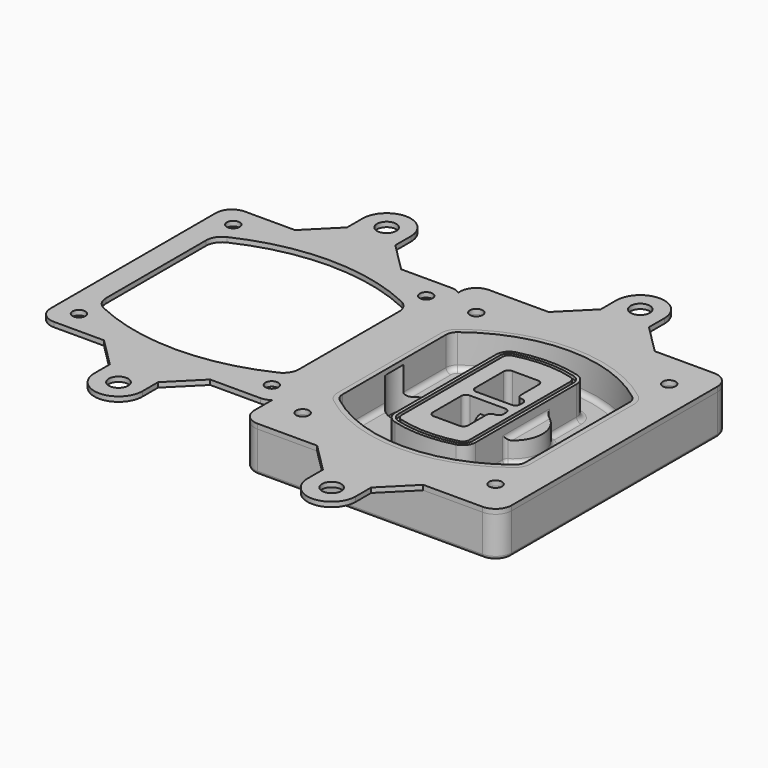
from build123d import *

# Parameters (mm, degrees)
F0_R      = 4
F1_DEPTH  = 25
F2_DEPTH  = 3
F3_DEPTH  = 18
F5_DEPTH  = 21
F6_DEPTH  = 2
F8_DEPTH  = 20
F9_DEPTH  = 16
F10_DEPTH = 25
F7_R      = 6
F7_R_2    = 4
F11_DEPTH = 6
F13_DEPTH = 9
F14_R     = 3
F15_R     = 2
F16_R     = 4
F16_R_2   = 6
F17_DEPTH = 3


with BuildPart() as f1:
    # F0 (on Top) → F1 (new body)
    with BuildSketch(Plane.XY):
        with BuildLine():
            ThreePointArc((-80, -80), (-77.0710678119, -87.0710678119), (-70, -90))
            Line((-70, -90), (70, -90))
            ThreePointArc((70, -90), (77.0710678119, -87.0710678119), (80, -80))
            Line((80, -80), (80, 80))
            ThreePointArc((80, 80), (77.0710678119, 87.0710678119), (70, 90))
            Line((70, 90), (-70, 90))
            ThreePointArc((-70, 90), (-77.0710678119, 87.0710678119), (-80, 80))
            Line((-80, 80), (-80, -80))
        make_face()
        with Locations((-60, -67.5)):
            Circle(F0_R, mode=Mode.SUBTRACT)
        with Locations((60, -67.5)):
            Circle(F0_R, mode=Mode.SUBTRACT)
        with Locations((-60, 67.5)):
            Circle(F0_R, mode=Mode.SUBTRACT)
        with BuildLine():
            ThreePointArc((-64, 40.2934422872), (-62.5820384798, 46.4328484224), (-58.6153846154, 51.3286200352))
            ThreePointArc((-58.6153846154, 51.3286200352), (0, 71.5), (58.6153846154, 51.3286200352))
            ThreePointArc((58.6153846154, 51.3286200352), (62.5820384798, 46.4328484224), (64, 40.2934422872))
            Line((64, 40.2934422872), (64, -40.2934422872))
            ThreePointArc((64, -40.2934422872), (62.5820384798, -46.4328484224), (58.6153846154, -51.3286200352))
            ThreePointArc((58.6153846154, -51.3286200352), (0, -71.5), (-58.6153846154, -51.3286200352))
            ThreePointArc((-58.6153846154, -51.3286200352), (-62.5820384798, -46.4328484224), (-64, -40.2934422872))
            Line((-64, -40.2934422872), (-64, 40.2934422872))
        make_face(mode=Mode.SUBTRACT)
        with Locations((60, 67.5)):
            Circle(F0_R, mode=Mode.SUBTRACT)
        with BuildLine():
            ThreePointArc((58.6153846154, 51.3286200352), (0, 71.5), (-58.6153846154, 51.3286200352))
            ThreePointArc((-58.6153846154, 51.3286200352), (-62.5820384798, 46.4328484224), (-64, 40.2934422872))
            Line((-64, 40.2934422872), (-64, -40.2934422872))
            ThreePointArc((-64, -40.2934422872), (-62.5820384798, -46.4328484224), (-58.6153846154, -51.3286200352))
            ThreePointArc((-58.6153846154, -51.3286200352), (0, -71.5), (58.6153846154, -51.3286200352))
            ThreePointArc((58.6153846154, -51.3286200352), (62.5820384798, -46.4328484224), (64, -40.2934422872))
            Line((64, -40.2934422872), (64, 40.2934422872))
            ThreePointArc((64, 40.2934422872), (62.5820384798, 46.4328484224), (58.6153846154, 51.3286200352))
        make_face()
        with BuildLine():
            Line((-60, -40.2934422872), (-60, 40.2934422872))
            ThreePointArc((-60, 40.2934422872), (-58.9871703427, 44.6787323838), (-56.1538461538, 48.1757121072))
            ThreePointArc((-56.1538461538, 48.1757121072), (0, 67.5), (56.1538461538, 48.1757121072))
            ThreePointArc((56.1538461538, 48.1757121072), (58.9871703427, 44.6787323838), (60, 40.2934422872))
            Line((60, 40.2934422872), (60, -40.2934422872))
            ThreePointArc((60, -40.2934422872), (58.9871703427, -44.6787323838), (56.1538461538, -48.1757121072))
            ThreePointArc((56.1538461538, -48.1757121072), (0, -67.5), (-56.1538461538, -48.1757121072))
            ThreePointArc((-56.1538461538, -48.1757121072), (-58.9871703427, -44.6787323838), (-60, -40.2934422872))
        make_face(mode=Mode.SUBTRACT)
        with BuildLine():
            ThreePointArc((-56.1538461538, 48.1757121072), (-58.9871703427, 44.6787323838), (-60, 40.2934422872))
            Line((-60, 40.2934422872), (-60, -40.2934422872))
            ThreePointArc((-60, -40.2934422872), (-58.9871703427, -44.6787323838), (-56.1538461538, -48.1757121072))
            ThreePointArc((-56.1538461538, -48.1757121072), (0, -67.5), (56.1538461538, -48.1757121072))
            ThreePointArc((56.1538461538, -48.1757121072), (58.9871703427, -44.6787323838), (60, -40.2934422872))
            Line((60, -40.2934422872), (60, 40.2934422872))
            ThreePointArc((60, 40.2934422872), (58.9871703427, 44.6787323838), (56.1538461538, 48.1757121072))
            ThreePointArc((56.1538461538, 48.1757121072), (0, 67.5), (-56.1538461538, 48.1757121072))
        make_face()
        with BuildLine():
            ThreePointArc((54.3076923077, 45.8110311612), (56.2910192399, 43.3631453548), (57, 40.2934422872))
            Line((57, 40.2934422872), (57, -40.2934422872))
            ThreePointArc((57, -40.2934422872), (56.2910192399, -43.3631453548), (54.3076923077, -45.8110311612))
            ThreePointArc((54.3076923077, -45.8110311612), (0, -64.5), (-54.3076923077, -45.8110311612))
            ThreePointArc((-54.3076923077, -45.8110311612), (-56.2910192399, -43.3631453548), (-57, -40.2934422872))
            Line((-57, -40.2934422872), (-57, 40.2934422872))
            ThreePointArc((-57, 40.2934422872), (-56.2910192399, 43.3631453548), (-54.3076923077, 45.8110311612))
            ThreePointArc((-54.3076923077, 45.8110311612), (0, 64.5), (54.3076923077, 45.8110311612))
        make_face(mode=Mode.SUBTRACT)
        with BuildLine():
            Line((57, -40.2934422872), (57, 40.2934422872))
            ThreePointArc((57, 40.2934422872), (56.2910192399, 43.3631453548), (54.3076923077, 45.8110311612))
            ThreePointArc((54.3076923077, 45.8110311612), (0, 64.5), (-54.3076923077, 45.8110311612))
            ThreePointArc((-54.3076923077, 45.8110311612), (-56.2910192399, 43.3631453548), (-57, 40.2934422872))
            Line((-57, 40.2934422872), (-57, -40.2934422872))
            ThreePointArc((-57, -40.2934422872), (-56.2910192399, -43.3631453548), (-54.3076923077, -45.8110311612))
            ThreePointArc((-54.3076923077, -45.8110311612), (0, -64.5), (54.3076923077, -45.8110311612))
            ThreePointArc((54.3076923077, -45.8110311612), (56.2910192399, -43.3631453548), (57, -40.2934422872))
        make_face()
    extrude(amount=-F1_DEPTH)

    # F0 (on Top) → F2 (join)
    with BuildSketch(Plane.XY):
        with BuildLine():
            ThreePointArc((-56.1538461538, 48.1757121072), (-58.9871703427, 44.6787323838), (-60, 40.2934422872))
            Line((-60, 40.2934422872), (-60, -40.2934422872))
            ThreePointArc((-60, -40.2934422872), (-58.9871703427, -44.6787323838), (-56.1538461538, -48.1757121072))
            ThreePointArc((-56.1538461538, -48.1757121072), (0, -67.5), (56.1538461538, -48.1757121072))
            ThreePointArc((56.1538461538, -48.1757121072), (58.9871703427, -44.6787323838), (60, -40.2934422872))
            Line((60, -40.2934422872), (60, 40.2934422872))
            ThreePointArc((60, 40.2934422872), (58.9871703427, 44.6787323838), (56.1538461538, 48.1757121072))
            ThreePointArc((56.1538461538, 48.1757121072), (0, 67.5), (-56.1538461538, 48.1757121072))
        make_face()
        with BuildLine():
            ThreePointArc((54.3076923077, 45.8110311612), (56.2910192399, 43.3631453548), (57, 40.2934422872))
            Line((57, 40.2934422872), (57, -40.2934422872))
            ThreePointArc((57, -40.2934422872), (56.2910192399, -43.3631453548), (54.3076923077, -45.8110311612))
            ThreePointArc((54.3076923077, -45.8110311612), (0, -64.5), (-54.3076923077, -45.8110311612))
            ThreePointArc((-54.3076923077, -45.8110311612), (-56.2910192399, -43.3631453548), (-57, -40.2934422872))
            Line((-57, -40.2934422872), (-57, 40.2934422872))
            ThreePointArc((-57, 40.2934422872), (-56.2910192399, 43.3631453548), (-54.3076923077, 45.8110311612))
            ThreePointArc((-54.3076923077, 45.8110311612), (0, 64.5), (54.3076923077, 45.8110311612))
        make_face(mode=Mode.SUBTRACT)
    extrude(amount=F2_DEPTH)

    # F0 (on Top) → F3 (cut)
    with BuildSketch(Plane.XY):
        with BuildLine():
            Line((57, -40.2934422872), (57, 40.2934422872))
            ThreePointArc((57, 40.2934422872), (56.2910192399, 43.3631453548), (54.3076923077, 45.8110311612))
            ThreePointArc((54.3076923077, 45.8110311612), (0, 64.5), (-54.3076923077, 45.8110311612))
            ThreePointArc((-54.3076923077, 45.8110311612), (-56.2910192399, 43.3631453548), (-57, 40.2934422872))
            Line((-57, 40.2934422872), (-57, -40.2934422872))
            ThreePointArc((-57, -40.2934422872), (-56.2910192399, -43.3631453548), (-54.3076923077, -45.8110311612))
            ThreePointArc((-54.3076923077, -45.8110311612), (0, -64.5), (54.3076923077, -45.8110311612))
            ThreePointArc((54.3076923077, -45.8110311612), (56.2910192399, -43.3631453548), (57, -40.2934422872))
        make_face()
    extrude(amount=-F3_DEPTH, mode=Mode.SUBTRACT)

    # F4 (on face) → F5 (join, through all)
    with BuildSketch(Plane.XY.offset(3)):
        with BuildLine():
            ThreePointArc((-25, -39.2465276821), (-23.3511545998, -44.1109737193), (-19.0842911877, -46.9702398883))
            ThreePointArc((-19.0842911877, -46.9702398883), (0, -49.5), (19.0842911877, -46.9702398883))
            ThreePointArc((19.0842911877, -46.9702398883), (23.3511545998, -44.1109737193), (25, -39.2465276821))
            Line((25, -39.2465276821), (25, 39.2465276821))
            ThreePointArc((25, 39.2465276821), (23.3511545998, 44.1109737193), (19.0842911877, 46.9702398883))
            ThreePointArc((19.0842911877, 46.9702398883), (0, 49.5), (-19.0842911877, 46.9702398883))
            ThreePointArc((-19.0842911877, 46.9702398883), (-23.3511545998, 44.1109737193), (-25, 39.2465276821))
            Line((-25, 39.2465276821), (-25, -39.2465276821))
        make_face()
        with BuildLine():
            ThreePointArc((18.5632183908, 45.0393118368), (21.7633659499, 42.89486221), (23, 39.2465276821))
            Line((23, 39.2465276821), (23, -39.2465276821))
            ThreePointArc((23, -39.2465276821), (21.7633659499, -42.89486221), (18.5632183908, -45.0393118368))
            ThreePointArc((18.5632183908, -45.0393118368), (0, -47.5), (-18.5632183908, -45.0393118368))
            ThreePointArc((-18.5632183908, -45.0393118368), (-21.7633659499, -42.89486221), (-23, -39.2465276821))
            Line((-23, -39.2465276821), (-23, 39.2465276821))
            ThreePointArc((-23, 39.2465276821), (-21.7633659499, 42.89486221), (-18.5632183908, 45.0393118368))
            ThreePointArc((-18.5632183908, 45.0393118368), (0, 47.5), (18.5632183908, 45.0393118368))
        make_face(mode=Mode.SUBTRACT)
        with BuildLine():
            Line((23, -39.2465276821), (23, 39.2465276821))
            ThreePointArc((23, 39.2465276821), (21.7633659499, 42.89486221), (18.5632183908, 45.0393118368))
            ThreePointArc((18.5632183908, 45.0393118368), (0, 47.5), (-18.5632183908, 45.0393118368))
            ThreePointArc((-18.5632183908, 45.0393118368), (-21.7633659499, 42.89486221), (-23, 39.2465276821))
            Line((-23, 39.2465276821), (-23, -39.2465276821))
            ThreePointArc((-23, -39.2465276821), (-21.7633659499, -42.89486221), (-18.5632183908, -45.0393118368))
            ThreePointArc((-18.5632183908, -45.0393118368), (0, -47.5), (18.5632183908, -45.0393118368))
            ThreePointArc((18.5632183908, -45.0393118368), (21.7633659499, -42.89486221), (23, -39.2465276821))
        make_face()
        with BuildLine():
            ThreePointArc((18.0421455939, 43.1083837852), (20.1755772999, 41.6787507007), (21, 39.2465276821))
            Line((21, 39.2465276821), (21, -39.2465276821))
            ThreePointArc((21, -39.2465276821), (20.1755772999, -41.6787507007), (18.0421455939, -43.1083837852))
            ThreePointArc((18.0421455939, -43.1083837852), (0, -45.5), (-18.0421455939, -43.1083837852))
            ThreePointArc((-18.0421455939, -43.1083837852), (-20.1755772999, -41.6787507007), (-21, -39.2465276821))
            Line((-21, -39.2465276821), (-21, 39.2465276821))
            ThreePointArc((-21, 39.2465276821), (-20.1755772999, 41.6787507007), (-18.0421455939, 43.1083837852))
            ThreePointArc((-18.0421455939, 43.1083837852), (0, 45.5), (18.0421455939, 43.1083837852))
        make_face(mode=Mode.SUBTRACT)
        with BuildLine():
            Line((21, -39.2465276821), (21, 39.2465276821))
            ThreePointArc((21, 39.2465276821), (20.1755772999, 41.6787507007), (18.0421455939, 43.1083837852))
            ThreePointArc((18.0421455939, 43.1083837852), (0, 45.5), (-18.0421455939, 43.1083837852))
            ThreePointArc((-18.0421455939, 43.1083837852), (-20.1755772999, 41.6787507007), (-21, 39.2465276821))
            Line((-21, 39.2465276821), (-21, -39.2465276821))
            ThreePointArc((-21, -39.2465276821), (-20.1755772999, -41.6787507007), (-18.0421455939, -43.1083837852))
            ThreePointArc((-18.0421455939, -43.1083837852), (0, -45.5), (18.0421455939, -43.1083837852))
            ThreePointArc((18.0421455939, -43.1083837852), (20.1755772999, -41.6787507007), (21, -39.2465276821))
        make_face()
        with BuildLine():
            Line((-8, -2.5), (14, -2.5))
            ThreePointArc((14, -2.5), (16.1213203436, -3.3786796564), (17, -5.5))
            Line((17, -5.5), (17, -7.5))
            ThreePointArc((17, -7.5), (16.1213203436, -9.6213203436), (14, -10.5))
            ThreePointArc((14, -10.5), (11.8786796564, -11.3786796564), (11, -13.5))
            Line((11, -13.5), (11, -27.5))
            ThreePointArc((11, -27.5), (10.1213203436, -29.6213203436), (8, -30.5))
            Line((8, -30.5), (-8, -30.5))
            ThreePointArc((-8, -30.5), (-10.1213203436, -29.6213203436), (-11, -27.5))
            Line((-11, -27.5), (-11, -5.5))
            ThreePointArc((-11, -5.5), (-10.1213203436, -3.3786796564), (-8, -2.5))
        make_face(mode=Mode.SUBTRACT)
        with BuildLine():
            ThreePointArc((-8, 2.5), (-10.1213203436, 3.3786796564), (-11, 5.5))
            Line((-11, 5.5), (-11, 27.5))
            ThreePointArc((-11, 27.5), (-10.1213203436, 29.6213203436), (-8, 30.5))
            Line((-8, 30.5), (8, 30.5))
            ThreePointArc((8, 30.5), (10.1213203436, 29.6213203436), (11, 27.5))
            Line((11, 27.5), (11, 13.5))
            ThreePointArc((11, 13.5), (11.8786796564, 11.3786796564), (14, 10.5))
            ThreePointArc((14, 10.5), (16.1213203436, 9.6213203436), (17, 7.5))
            Line((17, 7.5), (17, 5.5))
            ThreePointArc((17, 5.5), (16.1213203436, 3.3786796564), (14, 2.5))
            Line((14, 2.5), (-8, 2.5))
        make_face(mode=Mode.SUBTRACT)
    extrude(amount=-F5_DEPTH)

    # F4 (on face) → F6 (cut)
    with BuildSketch(Plane.XY.offset(3)):
        with BuildLine():
            Line((23, -39.2465276821), (23, 39.2465276821))
            ThreePointArc((23, 39.2465276821), (21.7633659499, 42.89486221), (18.5632183908, 45.0393118368))
            ThreePointArc((18.5632183908, 45.0393118368), (0, 47.5), (-18.5632183908, 45.0393118368))
            ThreePointArc((-18.5632183908, 45.0393118368), (-21.7633659499, 42.89486221), (-23, 39.2465276821))
            Line((-23, 39.2465276821), (-23, -39.2465276821))
            ThreePointArc((-23, -39.2465276821), (-21.7633659499, -42.89486221), (-18.5632183908, -45.0393118368))
            ThreePointArc((-18.5632183908, -45.0393118368), (0, -47.5), (18.5632183908, -45.0393118368))
            ThreePointArc((18.5632183908, -45.0393118368), (21.7633659499, -42.89486221), (23, -39.2465276821))
        make_face()
        with BuildLine():
            ThreePointArc((18.0421455939, 43.1083837852), (20.1755772999, 41.6787507007), (21, 39.2465276821))
            Line((21, 39.2465276821), (21, -39.2465276821))
            ThreePointArc((21, -39.2465276821), (20.1755772999, -41.6787507007), (18.0421455939, -43.1083837852))
            ThreePointArc((18.0421455939, -43.1083837852), (0, -45.5), (-18.0421455939, -43.1083837852))
            ThreePointArc((-18.0421455939, -43.1083837852), (-20.1755772999, -41.6787507007), (-21, -39.2465276821))
            Line((-21, -39.2465276821), (-21, 39.2465276821))
            ThreePointArc((-21, 39.2465276821), (-20.1755772999, 41.6787507007), (-18.0421455939, 43.1083837852))
            ThreePointArc((-18.0421455939, 43.1083837852), (0, 45.5), (18.0421455939, 43.1083837852))
        make_face(mode=Mode.SUBTRACT)
    extrude(amount=-F6_DEPTH, mode=Mode.SUBTRACT)

    # F7 (on face) → F8 (join)
    with BuildSketch(Plane(origin=(0, 0, -25), x_dir=(1, 0, 0), z_dir=(0, 0, -1))):
        with BuildLine():
            ThreePointArc((3.28842436, 0), (16.7567035675, 13.4682792075), (30.224982775, 0))
            Line((30.224982775, 0), (35.224982775, 0))
            ThreePointArc((35.224982775, 0), (16.7567035675, 18.4682792075), (-1.71157564, 0))
            Line((-1.71157564, 0), (3.28842436, 0))
        make_face()
        with BuildLine():
            Line((3.28842436, 0), (30.224982775, 0))
            ThreePointArc((30.224982775, 0), (16.7567035675, 13.4682792075), (3.28842436, 0))
        make_face()
        with BuildLine():
            ThreePointArc((3.28842436, 0), (16.7567035675, -13.4682792075), (30.224982775, 0))
            Line((30.224982775, 0), (3.28842436, 0))
        make_face()
        with BuildLine():
            Line((35.224982775, 0), (30.224982775, 0))
            ThreePointArc((30.224982775, 0), (16.7567035675, -13.4682792075), (3.28842436, 0))
            Line((3.28842436, 0), (-1.71157564, 0))
            ThreePointArc((-1.71157564, 0), (16.7567035675, -18.4682792075), (35.224982775, 0))
        make_face()
    extrude(amount=-F8_DEPTH)

    # F7 (on face) → F9 (cut)
    with BuildSketch(Plane(origin=(0, 0, -25), x_dir=(1, 0, 0), z_dir=(0, 0, -1))):
        with BuildLine():
            Line((3.28842436, 0), (30.224982775, 0))
            ThreePointArc((30.224982775, 0), (16.7567035675, 13.4682792075), (3.28842436, 0))
        make_face()
        with BuildLine():
            ThreePointArc((3.28842436, 0), (16.7567035675, -13.4682792075), (30.224982775, 0))
            Line((30.224982775, 0), (3.28842436, 0))
        make_face()
    extrude(amount=-F9_DEPTH, mode=Mode.SUBTRACT)

    # F7 (on face) → F10 (cut)
    with BuildSketch(Plane(origin=(0, 0, -25), x_dir=(1, 0, 0), z_dir=(0, 0, -1))):
        with BuildLine():
            Line((-59.0318229325, 0), (-32.0952645175, 0))
            ThreePointArc((-32.0952645175, 0), (-45.563543725, 13.4682792075), (-59.0318229325, 0))
        make_face()
        with BuildLine():
            ThreePointArc((-59.0318229325, 0), (-45.563543725, -13.4682792075), (-32.0952645175, 0))
            Line((-32.0952645175, 0), (-59.0318229325, 0))
        make_face()
    extrude(amount=-F10_DEPTH, mode=Mode.SUBTRACT)

    # F7 (on face) → F11 (cut)
    with BuildSketch(Plane(origin=(0, 0, -25), x_dir=(1, 0, 0), z_dir=(0, 0, -1))):
        with Locations((60, -67.5)):
            Circle(F7_R)
        with Locations((60, -67.5)):
            Circle(F7_R_2, mode=Mode.SUBTRACT)
        with Locations((60, -67.5)):
            Circle(F7_R)
        with Locations((60, -67.5)):
            Circle(F7_R_2, mode=Mode.SUBTRACT)
        with Locations((-60, -67.5)):
            Circle(F7_R)
        with Locations((-60, -67.5)):
            Circle(F7_R_2, mode=Mode.SUBTRACT)
        with Locations((-60, -67.5)):
            Circle(F7_R)
        with Locations((-60, -67.5)):
            Circle(F7_R_2, mode=Mode.SUBTRACT)
        with Locations((-60, 67.5)):
            Circle(F7_R)
        with Locations((-60, 67.5)):
            Circle(F7_R_2, mode=Mode.SUBTRACT)
        with Locations((-60, 67.5)):
            Circle(F7_R)
        with Locations((-60, 67.5)):
            Circle(F7_R_2, mode=Mode.SUBTRACT)
        with Locations((60, 67.5)):
            Circle(F7_R)
        with Locations((60, 67.5)):
            Circle(F7_R_2, mode=Mode.SUBTRACT)
        with Locations((60, 67.5)):
            Circle(F7_R)
        with Locations((60, 67.5)):
            Circle(F7_R_2, mode=Mode.SUBTRACT)
    extrude(amount=-F11_DEPTH, mode=Mode.SUBTRACT)

    # F12 (on face) → F13 (cut, through all)
    with BuildSketch(Plane(origin=(0, 0, -9), x_dir=(1, 0, 0), z_dir=(0, 0, -1))):
        with BuildLine():
            Line((11, 13.5), (11, 17.5481537753))
            ThreePointArc((11, 17.5481537753), (2.5696536419, 11.8239143813), (-1.5415842455, 2.5))
            Line((-1.5415842455, 2.5), (3.5224848595, 2.5))
            ThreePointArc((3.5224848595, 2.5), (6.1857188154, 8.3455872281), (11.2536447004, 12.2927168648))
            ThreePointArc((11.2536447004, 12.2927168648), (11.0640958889, 12.8831798879), (11, 13.5))
        make_face()
        with BuildLine():
            ThreePointArc((11.2536447004, -12.2927168648), (6.1857188154, -8.3455872281), (3.5224848595, -2.5))
            Line((3.5224848595, -2.5), (-1.5415842455, -2.5))
            ThreePointArc((-1.5415842455, -2.5), (2.5696536419, -11.8239143813), (11, -17.5481537753))
            Line((11, -17.5481537753), (11, -13.5))
            ThreePointArc((11, -13.5), (11.0640958889, -12.8831798879), (11.2536447004, -12.2927168648))
        make_face()
        with BuildLine():
            ThreePointArc((11.2536447004, 12.2927168648), (6.1857188154, 8.3455872281), (3.5224848595, 2.5))
            Line((3.5224848595, 2.5), (14, 2.5))
            ThreePointArc((14, 2.5), (16.1213203436, 3.3786796564), (17, 5.5))
            Line((17, 5.5), (17, 7.5))
            ThreePointArc((17, 7.5), (16.1213203436, 9.6213203436), (14, 10.5))
            ThreePointArc((14, 10.5), (12.3601599782, 10.9878446101), (11.2536447004, 12.2927168648))
        make_face()
        with BuildLine():
            Line((14, -2.5), (3.5224848595, -2.5))
            ThreePointArc((3.5224848595, -2.5), (6.1857188154, -8.3455872281), (11.2536447004, -12.2927168648))
            ThreePointArc((11.2536447004, -12.2927168648), (12.3601599782, -10.9878446101), (14, -10.5))
            ThreePointArc((14, -10.5), (16.1213203436, -9.6213203436), (17, -7.5))
            Line((17, -7.5), (17, -5.5))
            ThreePointArc((17, -5.5), (16.1213203436, -3.3786796564), (14, -2.5))
        make_face()
    extrude(amount=F13_DEPTH, mode=Mode.SUBTRACT)

    # F14
    f14_edges = [f1.edges().sort_by_distance(p)[0] for p in [
        (-57, -23.703476, -18),
        (-57, 23.703476, -18),
        (25, 0, -5),
        (25, 16.526506, -11.5),
        (25, -16.526506, -11.5),
        (25, -27.886517, -18),
        (35.224983, 0, -18),
    ]]
    fillet(f14_edges, radius=F14_R)

    # F15
    f15_edges = [f1.edges().sort_by_distance(p)[0] for p in [
        (0, -90, -25),
    ]]
    fillet(f15_edges, radius=F15_R)


with BuildPart() as f17:
    # F16 (on face) → F17 (new body, through all)
    with BuildSketch(Plane.XY):
        with BuildLine():
            ThreePointArc((70, -90), (77.0710678119, -87.0710678119), (80, -80))
            Line((80, -80), (80, 80))
            ThreePointArc((80, 80), (77.0710678119, 87.0710678119), (70, 90))
            Line((70, 90), (33, 90))
            Line((33, 90), (-33, 90))
            Line((-33, 90), (-70, 90))
            ThreePointArc((-70, 90), (-77.0710678119, 87.0710678119), (-80, 80))
            Line((-80, 80), (-80, 78.5013407199))
            ThreePointArc((-80, 78.5013407199), (-76.8942971066, 74.9337319248), (-75.7756359577, 70.3378837755))
            Line((-75.7756359577, 70.3378837755), (-75.7756359577, -58.1621162245))
            ThreePointArc((-75.7756359577, -58.1621162245), (-76.8942971066, -62.7579643738), (-80, -66.325573169))
            Line((-80, -66.325573169), (-80, -80))
            ThreePointArc((-80, -80), (-77.0710678119, -87.0710678119), (-70, -90))
            Line((-70, -90), (-33, -90))
            Line((-33, -90), (33, -90))
            Line((33, -90), (70, -90))
        make_face()
        with Locations((-60, -67.5)):
            Circle(F16_R, mode=Mode.SUBTRACT)
        with Locations((60, -67.5)):
            Circle(F16_R, mode=Mode.SUBTRACT)
        with BuildLine():
            ThreePointArc((56.1538461538, 48.1757121072), (58.9871703427, 44.6787323838), (60, 40.2934422872))
            Line((60, 40.2934422872), (60, -40.2934422872))
            ThreePointArc((60, -40.2934422872), (58.9871703427, -44.6787323838), (56.1538461538, -48.1757121072))
            ThreePointArc((56.1538461538, -48.1757121072), (0, -67.5), (-56.1538461538, -48.1757121072))
            ThreePointArc((-56.1538461538, -48.1757121072), (-58.9871703427, -44.6787323838), (-60, -40.2934422872))
            Line((-60, -40.2934422872), (-60, 40.2934422872))
            ThreePointArc((-60, 40.2934422872), (-58.9871703427, 44.6787323838), (-56.1538461538, 48.1757121072))
            ThreePointArc((-56.1538461538, 48.1757121072), (0, 67.5), (56.1538461538, 48.1757121072))
        make_face(mode=Mode.SUBTRACT)
        with Locations((-60, 67.5)):
            Circle(F16_R, mode=Mode.SUBTRACT)
        with Locations((60, 67.5)):
            Circle(F16_R, mode=Mode.SUBTRACT)
        with BuildLine():
            Line((15, -108), (33, -90))
            Line((33, -90), (-33, -90))
            Line((-33, -90), (-15, -108))
            Line((-15, -108), (-15, -120))
            ThreePointArc((-15, -120), (0, -135), (15, -120))
            Line((15, -120), (15, -108))
        make_face()
        with Locations((0, -120)):
            Circle(F16_R_2, mode=Mode.SUBTRACT)
        with BuildLine():
            Line((-33, 90), (33, 90))
            Line((33, 90), (15, 108))
            Line((15, 108), (15, 120))
            ThreePointArc((15, 120), (0, 135), (-15, 120))
            Line((-15, 120), (-15, 108))
            Line((-15, 108), (-33, 90))
        make_face()
        with Locations((0, 120)):
            Circle(F16_R_2, mode=Mode.SUBTRACT)
        with BuildLine():
            ThreePointArc((-85.7756359577, -68.1621162245), (-82.7453364217, -67.6919265439), (-80, -66.325573169))
            Line((-80, -66.325573169), (-80, 78.5013407199))
            ThreePointArc((-80, 78.5013407199), (-82.7453364217, 79.8676940948), (-85.7756359577, 80.3378837755))
            Line((-85.7756359577, 80.3378837755), (-117.0256359577, 80.3378837755))
            Line((-117.0256359577, 80.3378837755), (-183.0256359577, 80.3378837755))
            Line((-183.0256359577, 80.3378837755), (-214.2756359577, 80.3378837755))
            ThreePointArc((-214.2756359577, 80.3378837755), (-221.3467037696, 77.4089515873), (-224.2756359577, 70.3378837755))
            Line((-224.2756359577, 70.3378837755), (-224.2756359577, -58.1621162245))
            ThreePointArc((-224.2756359577, -58.1621162245), (-221.3467037696, -65.2331840364), (-214.2756359577, -68.1621162245))
            Line((-214.2756359577, -68.1621162245), (-183.0256359577, -68.1621162245))
            Line((-183.0256359577, -68.1621162245), (-117.0256359577, -68.1621162245))
            Line((-117.0256359577, -68.1621162245), (-85.7756359577, -68.1621162245))
        make_face()
        with Locations((-210.0256359577, -53.9121162245)):
            Circle(F16_R, mode=Mode.SUBTRACT)
        with Locations((-90.0256359577, -53.9121162245)):
            Circle(F16_R, mode=Mode.SUBTRACT)
        with BuildLine():
            ThreePointArc((-95.7703168088, 53.9681695441), (-91.5830892007, 50.2781573737), (-90.0256359577, 44.9187353661))
            Line((-90.0256359577, 44.9187353661), (-90.0256359577, -32.7429678152))
            ThreePointArc((-90.0256359577, -32.7429678152), (-91.5830892007, -38.1023898228), (-95.7703168088, -41.7924019932))
            ThreePointArc((-95.7703168088, -41.7924019932), (-150.0256359577, -53.9121162245), (-204.2809551067, -41.7924019932))
            ThreePointArc((-204.2809551067, -41.7924019932), (-208.4681827148, -38.1023898228), (-210.0256359577, -32.7429678152))
            Line((-210.0256359577, -32.7429678152), (-210.0256359577, 44.9187353661))
            ThreePointArc((-210.0256359577, 44.9187353661), (-208.4681827148, 50.2781573737), (-204.2809551067, 53.9681695441))
            ThreePointArc((-204.2809551067, 53.9681695441), (-150.0256359577, 66.0878837755), (-95.7703168088, 53.9681695441))
        make_face(mode=Mode.SUBTRACT)
        with Locations((-210.0256359577, 66.0878837755)):
            Circle(F16_R, mode=Mode.SUBTRACT)
        with Locations((-90.0256359577, 66.0878837755)):
            Circle(F16_R, mode=Mode.SUBTRACT)
        with BuildLine():
            Line((-80, 78.5013407199), (-80, -66.325573169))
            ThreePointArc((-80, -66.325573169), (-76.8942971066, -62.7579643738), (-75.7756359577, -58.1621162245))
            Line((-75.7756359577, -58.1621162245), (-75.7756359577, 70.3378837755))
            ThreePointArc((-75.7756359577, 70.3378837755), (-76.8942971066, 74.9337319248), (-80, 78.5013407199))
        make_face()
        with BuildLine():
            Line((-135.0256359577, -86.1621162245), (-117.0256359577, -68.1621162245))
            Line((-117.0256359577, -68.1621162245), (-183.0256359577, -68.1621162245))
            Line((-183.0256359577, -68.1621162245), (-165.0256359577, -86.1621162245))
            Line((-165.0256359577, -86.1621162245), (-165.0256359577, -98.1621162245))
            ThreePointArc((-165.0256359577, -98.1621162245), (-150.0256359577, -113.1621162245), (-135.0256359577, -98.1621162245))
            Line((-135.0256359577, -98.1621162245), (-135.0256359577, -86.1621162245))
        make_face()
        with Locations((-150.0256359577, -98.1621162245)):
            Circle(F16_R_2, mode=Mode.SUBTRACT)
        with BuildLine():
            Line((-183.0256359577, 80.3378837755), (-117.0256359577, 80.3378837755))
            Line((-117.0256359577, 80.3378837755), (-135.0256359577, 98.3378837755))
            Line((-135.0256359577, 98.3378837755), (-135.0256359577, 110.3378837755))
            ThreePointArc((-135.0256359577, 110.3378837755), (-150.0256359577, 125.3378837755), (-165.0256359577, 110.3378837755))
            Line((-165.0256359577, 110.3378837755), (-165.0256359577, 98.3378837755))
            Line((-165.0256359577, 98.3378837755), (-183.0256359577, 80.3378837755))
        make_face()
        with Locations((-150.0256359577, 110.3378837755)):
            Circle(F16_R_2, mode=Mode.SUBTRACT)
    extrude(amount=F17_DEPTH)


solid = Compound([f1.part, f17.part])
